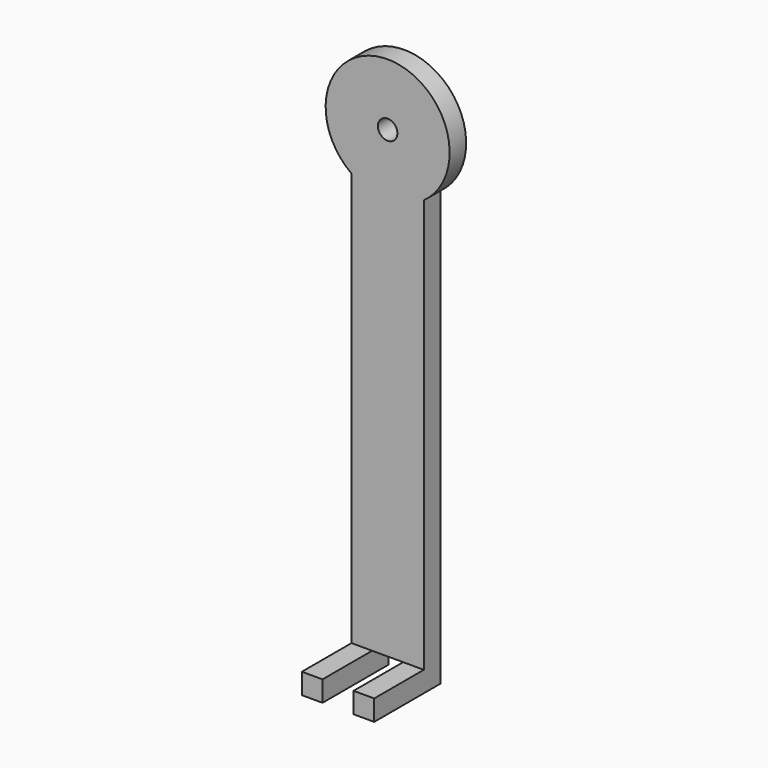
from build123d import *

# Parameters (mm, degrees)
F0_R     = 1.5
F1_DEPTH = 3.175
F0_W     = 3.175
F0_H     = 3.175
F2_DEPTH = 12.7


with BuildPart() as f1:
    # F0 (on Front) → F1 (new body)
    with BuildSketch(Plane.XZ):
        with BuildLine():
            Line((-91.283362, -36.782738), (-91.283362, 26.717262))
            ThreePointArc((-91.283362, 26.717262), (-96.839612, 43.97878), (-102.395862, 26.717262))
            Line((-102.395862, 26.717262), (-102.395862, -36.782738))
            Line((-102.395862, -36.782738), (-99.220862, -36.782738))
            Line((-99.220862, -36.782738), (-94.458362, -36.782738))
            Line((-94.458362, -36.782738), (-91.283362, -36.782738))
        make_face()
        with Locations((-96.839612, 34.45378)):
            Circle(F0_R, mode=Mode.SUBTRACT)
    extrude(amount=F1_DEPTH)

    # F0 (on Front) → F2 (join)
    with BuildSketch(Plane.XZ):
        with Locations((-100.808362, -38.370238)):
            Rectangle(F0_W, F0_H)
        with Locations((-92.870862, -38.370238)):
            Rectangle(F0_W, F0_H)
    extrude(amount=F2_DEPTH)


solid = f1.part
